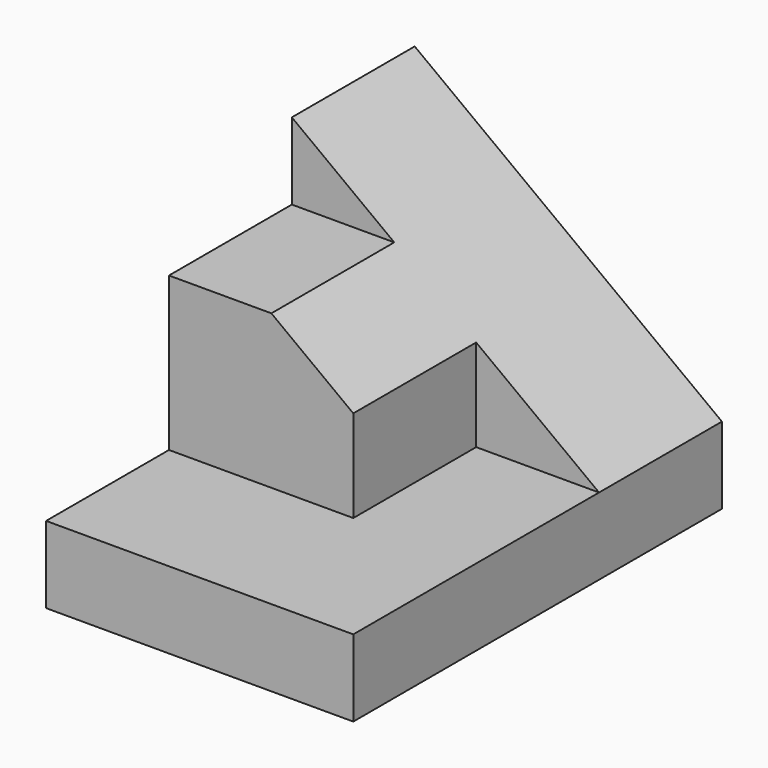
from build123d import *

# Parameters (mm, degrees)
F0_W     = 25.4
F0_H     = 6.35
F1_DEPTH = 19.05
F3_DEPTH = 12.7
F4_W     = 12.7
F4_H     = 12.7
F5_DEPTH = 15.24
F6_DEPTH = 25.4


with BuildPart() as f1:
    # F0 (on Front) → F1 (new body, symmetric)
    with BuildSketch(Plane.XZ):
        with Locations((12.7, 3.175)):
            Rectangle(F0_W, F0_H)
    extrude(amount=F1_DEPTH, both=True)

    # F2 (on face) → F3 (join)
    with BuildSketch(Plane(origin=(0, 19.05, 0), x_dir=(-1, 0, 0), z_dir=(0, 1, 0))):
        Polygon((-25.4, 6.35), (0, 6.35), (0, 25.4), align=None)
    extrude(amount=-F3_DEPTH)

    # F4 (on face) → F5 (join)
    with BuildSketch(Plane(origin=(0, 0, 0), x_dir=(0, -1, 0), z_dir=(-1, 0, 0))):
        with Locations((0, 12.7)):
            Rectangle(F4_W, F4_H)
    extrude(amount=-F5_DEPTH)

    # F6 (cut): a face of the model
    f6_faces = [f1.faces().sort_by_distance(p)[0] for p in [
        (12.9822222222, 6.35, 17.3566666667),
    ]]
    extrude(f6_faces, amount=-F6_DEPTH, mode=Mode.SUBTRACT)


solid = f1.part
